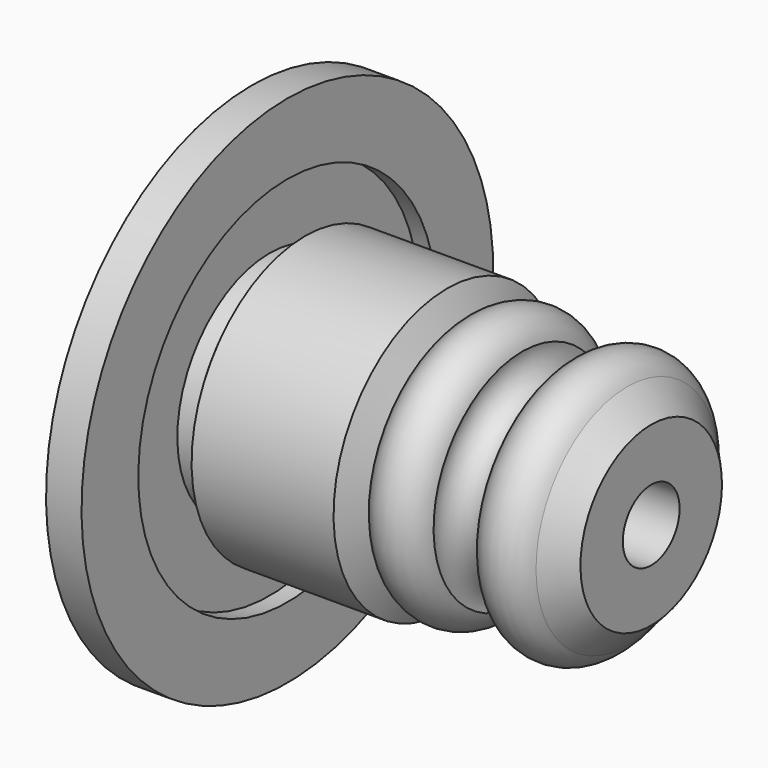
from build123d import *


with BuildPart() as f2:
    # F0 (on Front) → F2 (revolve)
    with BuildSketch(Plane.XZ):
        with BuildLine():
            Line((0, 29), (0, 4))
            Line((0, 4), (45, 4))
            Line((45, 4), (45, 9.965559))
            Line((45, 9.965559), (42.29979, 12.852509))
            ThreePointArc((42.29979, 12.852509), (38.803341, 14.779118), (35.525751, 12.5))
            ThreePointArc((35.525751, 12.5), (33, 9.425234), (30.474249, 12.5))
            ThreePointArc((30.474249, 12.5), (27, 15.115301), (23.525751, 12.5))
            Line((23.525751, 12.5), (22, 16))
            Line((22, 16), (6, 16))
            Line((6, 16), (4, 13))
            Line((4, 13), (2, 13))
            Line((2, 13), (2, 21))
            Line((2, 21), (4, 21))
            Line((4, 21), (4, 29))
            Line((4, 29), (0, 29))
        make_face()
    revolve(axis=Axis((47.634851, 0, 0), (1, 0, 0)))


solid = f2.part
